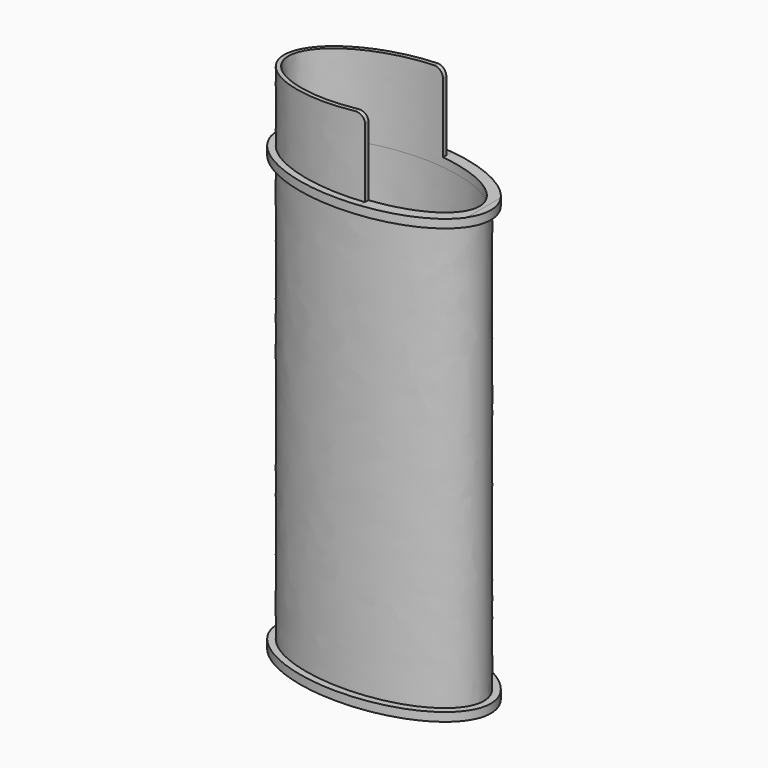
from build123d import *

# Parameters (mm, degrees)
F1_DEPTH  = 50
F3_DEPTH  = 49
F5_DEPTH  = 1
F7_DEPTH  = 9
F9_DEPTH  = 59
F11_DEPTH = 12.5
F12_R     = 3
F13_DEPTH = 61
F15_DEPTH = 49


with BuildPart() as f1:
    # F0 (on Top) → F1 (new body)
    with BuildSketch(Plane.XY):
        with BuildLine():
            add(Edge.make_bspline(
                [(12.3, 0), (12.3, 11.7779454915), (-6.15, 5.8889727457), (-24.6, 0), (-6.15, -5.8889727457), (12.3, -11.7779454915), (12.3, 0)],
                knots=[0, 0, 0, 2.0943951024, 2.0943951024, 4.1887902048, 4.1887902048, 6.2831853072, 6.2831853072, 6.2831853072], degree=2, weights=[1, 0.5, 1, 0.5, 1, 0.5, 1]))
        make_face()
    extrude(amount=F1_DEPTH)

    # F2 (on face) → F3 (cut)
    with BuildSketch(Plane.XY.offset(50)):
        with BuildLine():
            add(Edge.make_bspline(
                [(12.3, 0), (12.3, 11.7779454915), (-6.15, 5.8889727457), (-24.6, 0), (-6.15, -5.8889727457), (12.3, -11.7779454915), (12.3, 0)],
                knots=[0, 0, 0, 2.0943951024, 2.0943951024, 4.1887902048, 4.1887902048, 6.2831853072, 6.2831853072, 6.2831853072], degree=2, weights=[1, 0.5, 1, 0.5, 1, 0.5, 1]))
        make_face()
        with BuildLine():
            add(Edge.make_bspline(
                [(11.5, 0), (11.5, 10.3923048454), (-5.75, 5.1961524227), (-23, 0), (-5.75, -5.1961524227), (11.5, -10.3923048454), (11.5, 0)],
                knots=[0, 0, 0, 2.0943951024, 2.0943951024, 4.1887902048, 4.1887902048, 6.2831853072, 6.2831853072, 6.2831853072], degree=2, weights=[1, 0.5, 1, 0.5, 1, 0.5, 1]))
        make_face(mode=Mode.SUBTRACT)
    extrude(amount=-F3_DEPTH, mode=Mode.SUBTRACT)


with BuildPart() as f5:
    # F4 (on face) → F5 (new body)
    with BuildSketch(Plane.XY.offset(50)):
        with BuildLine():
            add(Edge.make_bspline(
                [(12.3, 0), (12.3, 11.7779454915), (-6.15, 5.8889727457), (-24.6, 0), (-6.15, -5.8889727457), (12.3, -11.7779454915), (12.3, 0)],
                knots=[0, 0, 0, 2.0943951024, 2.0943951024, 4.1887902048, 4.1887902048, 6.2831853072, 6.2831853072, 6.2831853072], degree=2, weights=[1, 0.5, 1, 0.5, 1, 0.5, 1]))
        make_face()
        with BuildLine():
            add(Edge.make_bspline(
                [(11.5, 0), (11.5, 10.3923048454), (-5.75, 5.1961524227), (-23, 0), (-5.75, -5.1961524227), (11.5, -10.3923048454), (11.5, 0)],
                knots=[0, 0, 0, 2.0943951024, 2.0943951024, 4.1887902048, 4.1887902048, 6.2831853072, 6.2831853072, 6.2831853072], degree=2, weights=[1, 0.5, 1, 0.5, 1, 0.5, 1]))
        make_face(mode=Mode.SUBTRACT)
        with BuildLine():
            add(Edge.make_bspline(
                [(11.5, 0), (11.5, 10.3923048454), (-5.75, 5.1961524227), (-23, 0), (-5.75, -5.1961524227), (11.5, -10.3923048454), (11.5, 0)],
                knots=[0, 0, 0, 2.0943951024, 2.0943951024, 4.1887902048, 4.1887902048, 6.2831853072, 6.2831853072, 6.2831853072], degree=2, weights=[1, 0.5, 1, 0.5, 1, 0.5, 1]))
        make_face()
    extrude(amount=F5_DEPTH)

    # F6 (on face) → F7 (join)
    with BuildSketch(Plane.XY.offset(51)):
        with BuildLine():
            add(Edge.make_bspline(
                [(11.5, 0), (11.5, 10.3923048454), (-5.75, 5.1961524227), (-23, 0), (-5.75, -5.1961524227), (11.5, -10.3923048454), (11.5, 0)],
                knots=[0, 0, 0, 2.0943951024, 2.0943951024, 4.1887902048, 4.1887902048, 6.2831853072, 6.2831853072, 6.2831853072], degree=2, weights=[1, 0.5, 1, 0.5, 1, 0.5, 1]))
        make_face()
    extrude(amount=F7_DEPTH)


with BuildPart() as f9_tool:
    # F8 (on face) → F9 (new body)
    with BuildSketch(Plane.XY.offset(60)):
        with BuildLine():
            add(Edge.make_bspline(
                [(11, 0), (11, 9.5262794416), (-5.5, 4.7631397208), (-22, 0), (-5.5, -4.7631397208), (11, -9.5262794416), (11, 0)],
                knots=[0, 0, 0, 2.0943951024, 2.0943951024, 4.1887902048, 4.1887902048, 6.2831853072, 6.2831853072, 6.2831853072], degree=2, weights=[1, 0.5, 1, 0.5, 1, 0.5, 1]))
        make_face()
    extrude(amount=-F9_DEPTH)


with BuildPart() as f1_1:
    add(f1.part)

    # F9: cut by f9_tool
    add(f9_tool.part, mode=Mode.SUBTRACT)

    # F12 (on face) → F13 (cut)
    with BuildSketch(Plane(origin=(0, 0, 0), x_dir=(1, 0, 0), z_dir=(0, 0, -1))):
        with Locations((5, 0)):
            Circle(F12_R)
    extrude(amount=-F13_DEPTH, mode=Mode.SUBTRACT)

    # F14 (on face) → F15 (cut)
    with BuildSketch(Plane.XY.offset(50)):
        with BuildLine():
            add(Edge.make_bspline(
                [(11, 0), (11, 9.5262794416), (-5.5, 4.7631397208), (-22, 0), (-5.5, -4.7631397208), (11, -9.5262794416), (11, 0)],
                knots=[0, 0, 0, 2.0943951024, 2.0943951024, 4.1887902048, 4.1887902048, 6.2831853072, 6.2831853072, 6.2831853072], degree=2, weights=[1, 0.5, 1, 0.5, 1, 0.5, 1]))
        make_face()
    extrude(amount=-F15_DEPTH, mode=Mode.SUBTRACT)


with BuildPart() as f5_1:
    add(f5.part)

    # F9: cut by f9_tool
    add(f9_tool.part, mode=Mode.SUBTRACT)

    # F10 (on Front) → F11 (cut, symmetric)
    with BuildSketch(Plane.XZ):
        with BuildLine():
            Line((2.5, 58.9260236537), (2.5, 51))
            Line((2.5, 51), (11.5, 50.9690120816))
            Line((11.5, 50.9690120816), (11.5, 60.1))
            Line((11.5, 60.1), (-11.5, 60.1))
            Line((-11.5, 60.1), (-11.5, 59))
            Line((-11.5, 59), (1.42875295, 59.9234823536))
            ThreePointArc((1.42875295, 59.9234823536), (2.1814517408, 59.6578867045), (2.5, 58.9260236537))
        make_face()
    extrude(amount=F11_DEPTH, both=True, mode=Mode.SUBTRACT)


solid = Compound([f1_1.part, f5_1.part])
